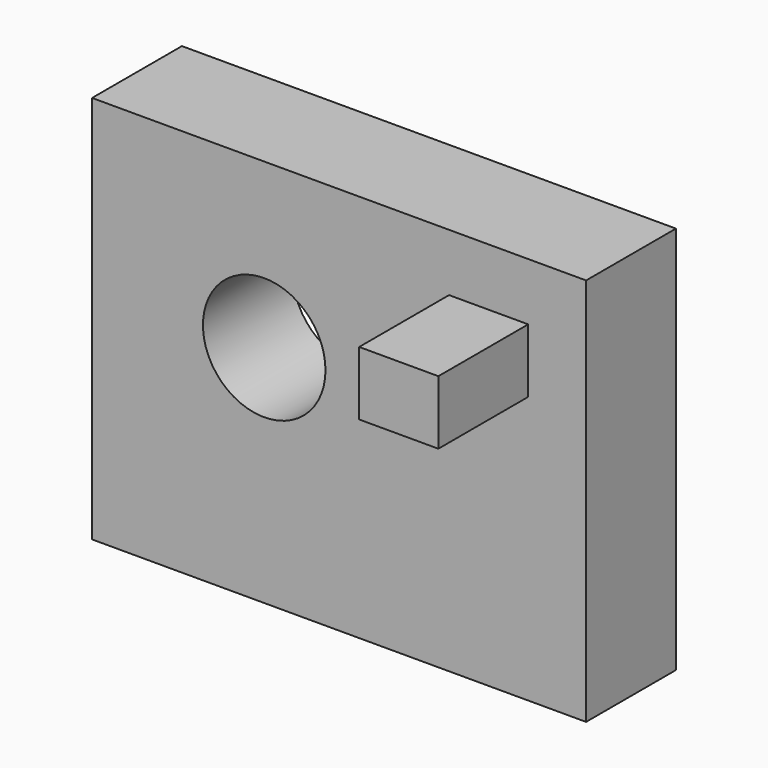
from build123d import *

# Parameters (mm, degrees)
F0_W     = 111.74202
F0_H     = 87.911576
F0_R     = 13.857881
F1_DEPTH = 25.4
F2_W     = 17.907545
F2_H     = 14.442034
F3_DEPTH = 25.4


with BuildPart() as f1:
    # F0 (on Front) → F1 (new body)
    with BuildSketch(Plane.XZ):
        with Locations((-3.399145, 7.982034)):
            Rectangle(F0_W, F0_H)
        with Locations((-20.333156, 14.872237)):
            Circle(F0_R, mode=Mode.SUBTRACT)
    extrude(amount=F1_DEPTH)

    # F2 (on face) → F3 (join)
    with BuildSketch(Plane.XZ.offset(25.4)):
        with Locations((30.423462, 31.712607)):
            Rectangle(F2_W, F2_H)
    extrude(amount=F3_DEPTH)


solid = f1.part
